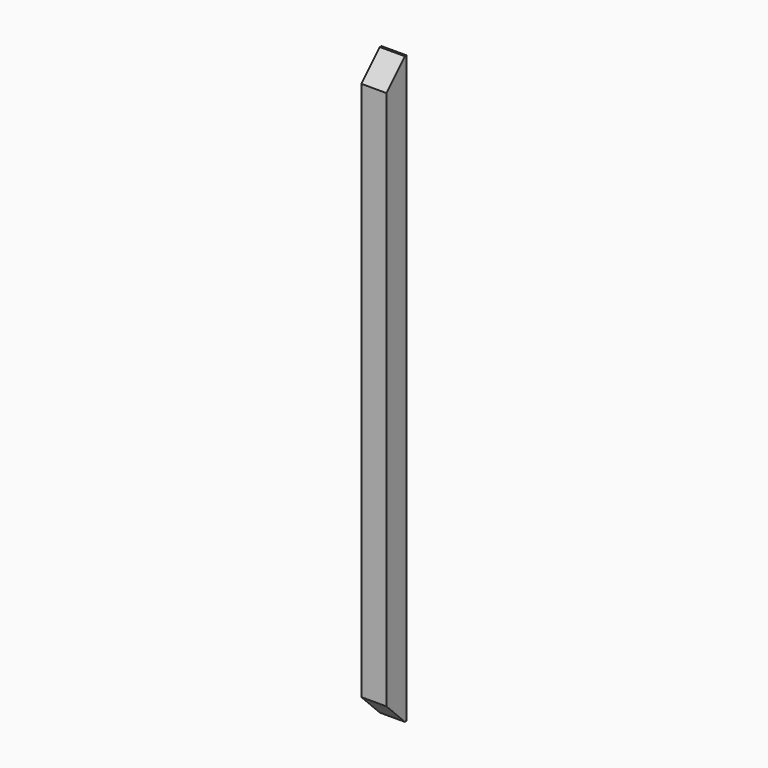
from build123d import *

# Parameters (mm, degrees)
F0_W     = 38.1
F0_H     = 889
F1_DEPTH = 38.1
F3_DEPTH = 38.101


with BuildPart() as f1:
    # F0 (on Front) → F1 (new body)
    with BuildSketch(Plane.XZ):
        with Locations((19.05, 444.5)):
            Rectangle(F0_W, F0_H)
    extrude(amount=F1_DEPTH)

    # F2 (on face) → F3 (cut, through all)
    with BuildSketch(Plane(origin=(0, 0, 0), x_dir=(0, -1, 0), z_dir=(-1, 0, 0))):
        Polygon((38.1, 889), (3.175, 889), (38.1, 854.075), align=None)
        Polygon((38.1, 34.925), (3.175, 0), (38.1, 0), align=None)
    extrude(amount=-F3_DEPTH, mode=Mode.SUBTRACT)


solid = f1.part
